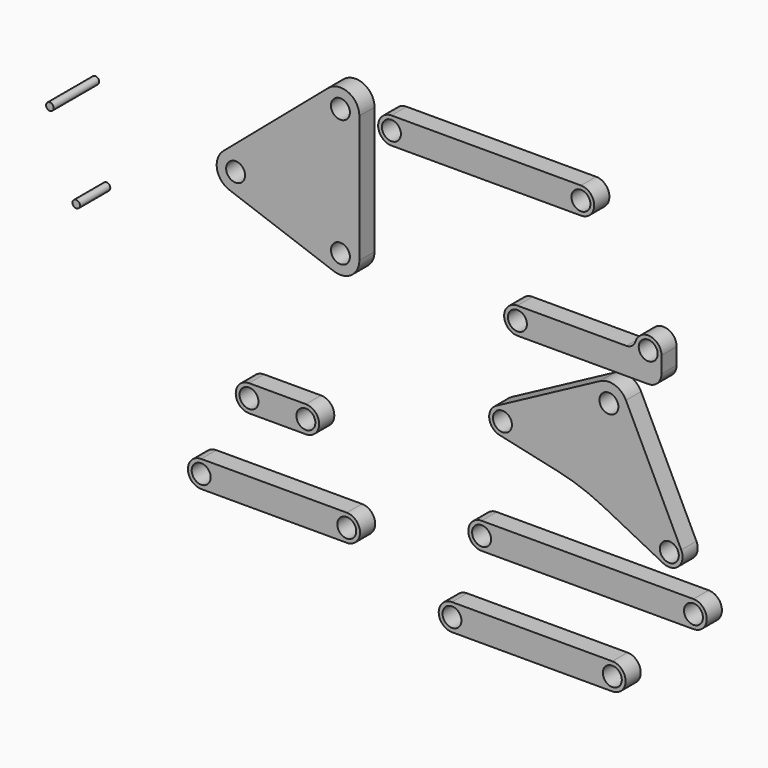
from build123d import *

# Parameters (mm, degrees)
F1_DEPTH  = 5
F2_R      = 5
F3_R      = 2.5
F4_DEPTH  = 25
F6_DEPTH  = 5
F7_R      = 3.5
F8_R      = 2.5
F9_R      = 2.5
F10_DEPTH = 25
F11_R     = 2.5
F12_DEPTH = 5
F13_R     = 2.5
F14_DEPTH = 5
F15_R     = 2.5
F16_DEPTH = 5
F17_R     = 2.5
F18_DEPTH = 5
F19_R     = 2.5
F20_DEPTH = 5
F22_DEPTH = 5
F23_R     = 50
F24_R     = 5
F25_R     = 3.5
F26_R     = 2.5
F27_DEPTH = 25
F28_R     = 1
F29_DEPTH = 15
F30_R     = 1
F31_DEPTH = 10


with BuildPart() as f1:
    # F0 (on Front) → F1 (new body)
    with BuildSketch(Plane.XZ):
        Polygon((-19.307502, 13.474201), (-19.307502, 64.974201), (-61.744437, 28.742356), align=None)
    extrude(amount=F1_DEPTH)

    # F2
    f2_edges = [f1.edges().sort_by_distance(p)[0] for p in [
        (-19.307502, -2.5, 64.974201),
        (-19.307502, -2.5, 13.474201),
        (-61.744437, -2.5, 28.742356),
    ]]
    fillet(f2_edges, radius=F2_R)

    # F3 (on face) → F4 (cut)
    with BuildSketch(Plane.XZ.offset(5)):
        with Locations((-24.307502, 54.130835)):
            Circle(F3_R)
        with Locations((-24.307502, 20.586891)):
            Circle(F3_R)
        with Locations((-51.948321, 30.531632)):
            Circle(F3_R)
    extrude(amount=-F4_DEPTH, mode=Mode.SUBTRACT)


with BuildPart() as f6:
    # F5 (on Front) → F6 (new body)
    with BuildSketch(Plane.XZ):
        with BuildLine():
            ThreePointArc((22.390581, 23.657396), (18.890581, 20.157396), (22.390581, 16.657396))
            Line((22.390581, 16.657396), (60.390581, 16.657396))
            Line((60.390581, 16.657396), (60.390581, 24.457396))
            ThreePointArc((60.390581, 24.457396), (56.890581, 27.957396), (53.390581, 24.457396))
            Line((53.390581, 24.457396), (53.390581, 23.657396))
            Line((53.390581, 23.657396), (22.390581, 23.657396))
        make_face()
    extrude(amount=F6_DEPTH)

    # F7
    f7_edges = [f6.edges().sort_by_distance(p)[0] for p in [
        (60.390581, -2.5, 16.657396),
    ]]
    fillet(f7_edges, radius=F7_R)

    # F8
    f8_edges = [f6.edges().sort_by_distance(p)[0] for p in [
        (53.390581, -2.5, 23.657396),
    ]]
    fillet(f8_edges, radius=F8_R)

    # F9 (on face) → F10 (cut)
    with BuildSketch(Plane.XZ.offset(5)):
        with Locations((22.390581, 20.157396)):
            Circle(F9_R)
        with Locations((56.890581, 24.457396)):
            Circle(F9_R)
    extrude(amount=-F10_DEPTH, mode=Mode.SUBTRACT)


with BuildPart() as f12:
    # F11 (on Front) → F12 (new body)
    with BuildSketch(Plane.XZ):
        with BuildLine():
            ThreePointArc((-48.417516, -17.380451), (-51.917516, -20.880451), (-48.417516, -24.380451))
            Line((-48.417516, -24.380451), (-33.417516, -24.380451))
            ThreePointArc((-33.417516, -24.380451), (-29.917516, -20.880451), (-33.417516, -17.380451))
            Line((-33.417516, -17.380451), (-48.417516, -17.380451))
        make_face()
        with Locations((-48.417516, -20.880451)):
            Circle(F11_R, mode=Mode.SUBTRACT)
        with Locations((-33.417516, -20.880451)):
            Circle(F11_R, mode=Mode.SUBTRACT)
    extrude(amount=F12_DEPTH)


with BuildPart() as f14:
    # F13 (on Front) → F14 (new body)
    with BuildSketch(Plane.XZ):
        with BuildLine():
            Line((39.150667, 57.00747), (-10.849333, 57.00747))
            ThreePointArc((-10.849333, 57.00747), (-14.349333, 53.50747), (-10.849333, 50.00747))
            Line((-10.849333, 50.00747), (39.150667, 50.00747))
            ThreePointArc((39.150667, 50.00747), (42.650667, 53.50747), (39.150667, 57.00747))
        make_face()
        with Locations((-10.849333, 53.50747)):
            Circle(F13_R, mode=Mode.SUBTRACT)
        with Locations((39.150667, 53.50747)):
            Circle(F13_R, mode=Mode.SUBTRACT)
    extrude(amount=F14_DEPTH)


with BuildPart() as f16:
    # F15 (on Front) → F16 (new body)
    with BuildSketch(Plane.XZ):
        with BuildLine():
            ThreePointArc((12.936995, -29.381043), (9.436995, -32.881043), (12.936995, -36.381043))
            Line((12.936995, -36.381043), (68.836995, -36.381043))
            ThreePointArc((68.836995, -36.381043), (72.336995, -32.881043), (68.836995, -29.381043))
            Line((68.836995, -29.381043), (12.936995, -29.381043))
        make_face()
        with Locations((12.936995, -32.881043)):
            Circle(F15_R, mode=Mode.SUBTRACT)
        with Locations((68.836995, -32.881043)):
            Circle(F15_R, mode=Mode.SUBTRACT)
    extrude(amount=F16_DEPTH)


with BuildPart() as f18:
    # F17 (on Front) → F18 (new body)
    with BuildSketch(Plane.XZ):
        with BuildLine():
            ThreePointArc((-61.032135, -39.071615), (-64.532135, -42.571615), (-61.032135, -46.071615))
            Line((-61.032135, -46.071615), (-22.632135, -46.071615))
            ThreePointArc((-22.632135, -46.071615), (-19.132135, -42.571615), (-22.632135, -39.071615))
            Line((-22.632135, -39.071615), (-61.032135, -39.071615))
        make_face()
        with Locations((-61.032135, -42.571615)):
            Circle(F17_R, mode=Mode.SUBTRACT)
        with Locations((-22.632135, -42.571615)):
            Circle(F17_R, mode=Mode.SUBTRACT)
    extrude(amount=F18_DEPTH)


with BuildPart() as f20:
    # F19 (on Front) → F20 (new body)
    with BuildSketch(Plane.XZ):
        with BuildLine():
            ThreePointArc((5.126817, -50.803418), (1.626817, -54.303418), (5.126817, -57.803418))
            Line((5.126817, -57.803418), (47.426817, -57.803418))
            ThreePointArc((47.426817, -57.803418), (50.926817, -54.303418), (47.426817, -50.803418))
            Line((47.426817, -50.803418), (5.126817, -50.803418))
        make_face()
        with Locations((5.126817, -54.303418)):
            Circle(F19_R, mode=Mode.SUBTRACT)
        with Locations((47.426817, -54.303418)):
            Circle(F19_R, mode=Mode.SUBTRACT)
    extrude(amount=F20_DEPTH)


with BuildPart() as f22:
    # F21 (on Front) → F22 (new body)
    with BuildSketch(Plane.XZ):
        Polygon((48.745802, 15.656131), (8.448243, -5.898376), (39.36753, -12.735591), (70.170489, -28.411803), align=None)
    extrude(amount=F22_DEPTH)

    # F23
    f23_edges = [f22.edges().sort_by_distance(p)[0] for p in [
        (39.36753, -2.5, -12.735591),
    ]]
    fillet(f23_edges, radius=F23_R)

    # F24
    f24_edges = [f22.edges().sort_by_distance(p)[0] for p in [
        (48.745802, -2.5, 15.656131),
    ]]
    fillet(f24_edges, radius=F24_R)

    # F25
    f25_edges = [f22.edges().sort_by_distance(p)[0] for p in [
        (8.448243, -2.5, -5.898376),
        (70.170489, -2.5, -28.411803),
    ]]
    fillet(f25_edges, radius=F25_R)

    # F26 (on face) → F27 (cut)
    with BuildSketch(Plane.XZ.offset(5)):
        with Locations((46.521411, 8.796022)):
            Circle(F26_R)
        with Locations((18.439814, -4.523271)):
            Circle(F26_R)
        with Locations((62.46229, -20.561775)):
            Circle(F26_R)
    extrude(amount=-F27_DEPTH, mode=Mode.SUBTRACT)


with BuildPart() as f29:
    # F28 (on Front) → F29 (new body)
    with BuildSketch(Plane.XZ):
        with Locations((-92.953913, 36.427122)):
            Circle(F28_R)
    extrude(amount=F29_DEPTH)


with BuildPart() as f31:
    # F30 (on Front) → F31 (new body)
    with BuildSketch(Plane.XZ):
        with Locations((-90.007119, 12.705306)):
            Circle(F30_R)
    extrude(amount=F31_DEPTH)


solid = Compound([f1.part, f6.part, f12.part, f14.part, f16.part, f18.part, f20.part, f22.part, f29.part, f31.part])
